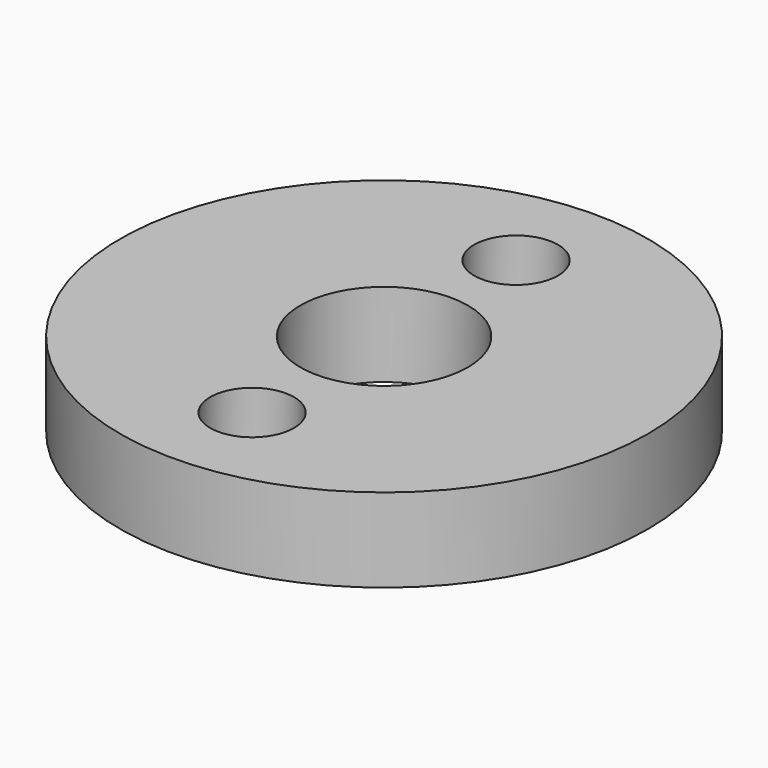
from build123d import *

# Parameters (mm, degrees)
F0_R     = 20
F0_R_2   = 6.35
F1_DEPTH = 6.35
F2_R     = 3.175
F3_DEPTH = 6.35


with BuildPart() as f1:
    # F0 (on Top) → F1 (new body)
    with BuildSketch(Plane.XY):
        Circle(F0_R)
        Circle(F0_R_2, mode=Mode.SUBTRACT)
    extrude(amount=F1_DEPTH)

    # F2 (on Top) → F3 (cut, through all)
    with BuildSketch(Plane.XY):
        with Locations((0, 12.5)):
            Circle(F2_R)
        with Locations((0, -12.5)):
            Circle(F2_R)
    extrude(amount=F3_DEPTH, mode=Mode.SUBTRACT)


solid = f1.part
